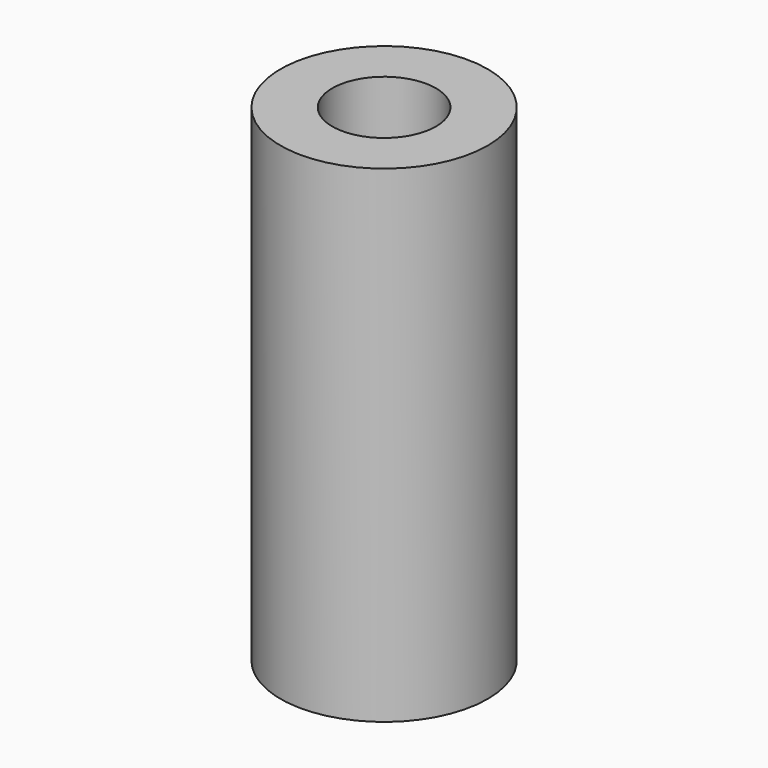
from build123d import *

# Parameters (mm, degrees)
SKETCH316_R      = 1
EXTRUDE173_DEPTH = 9.4
SKETCH317_R      = 2
EXTRUDE174_DEPTH = 9.4


with BuildPart() as extrude173:
    # Sketch316 → Extrude173 (new body)
    with BuildSketch(Plane.XY.offset(6.6)):
        with Locations((36, -22)):
            Circle(SKETCH316_R)
    extrude(amount=EXTRUDE173_DEPTH)


with BuildPart() as cut075:
    # Sketch317 → Extrude174 (new body)
    with BuildSketch(Plane.XY.offset(6.6)):
        with Locations((36, -22)):
            Circle(SKETCH317_R)
    extrude(amount=EXTRUDE174_DEPTH)

    # Cut075: cut Extrude173
    add(extrude173.part, mode=Mode.SUBTRACT)


with BuildPart() as cut075_1:
    # Cut075 placement: moved
    add(cut075.part.moved(Location((0, 44, 0))))


solid = cut075_1.part
